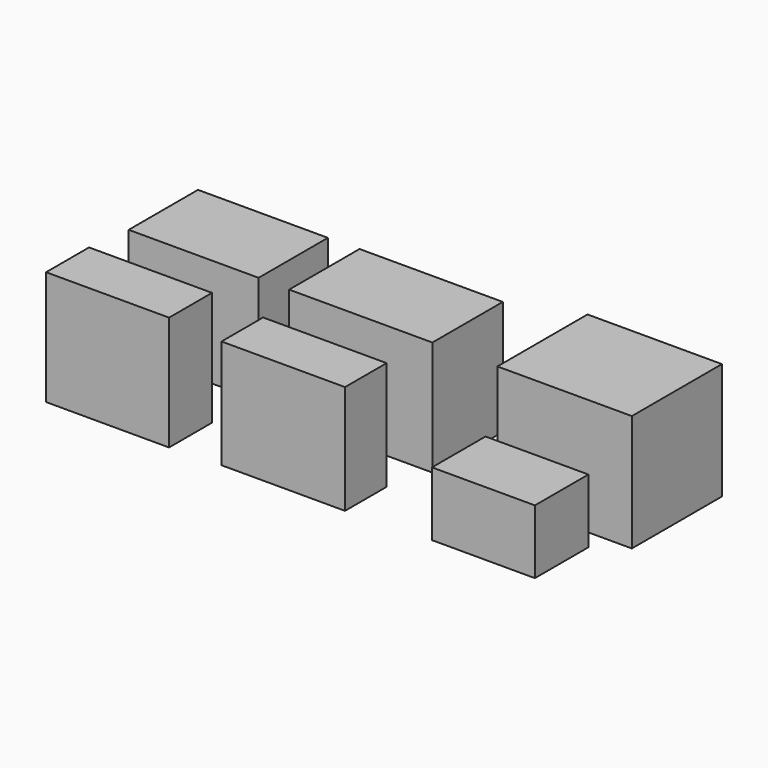
from build123d import *

# Parameters (mm, degrees)
F0_W      = 197.104
F0_H      = 165.1
F1_DEPTH  = 170.942
F2_W      = 210.058
F2_H      = 129.032
F3_DEPTH  = 167.894
F4_W      = 181.102
F4_H      = 76.2
F5_DEPTH  = 159.766
F6_W      = 150.876
F6_H      = 98.044
F7_DEPTH  = 93.98
F8_W      = 190.5
F8_H      = 127
F9_DEPTH  = 158.75
F10_W     = 180.34
F10_H     = 78.74
F11_DEPTH = 167.64


with BuildPart() as f1:
    # F0 (on Top) → F1 (new body)
    with BuildSketch(Plane.XY):
        Rectangle(F0_W, F0_H)
    extrude(amount=F1_DEPTH)


with BuildPart() as f3:
    # F2 (on Top) → F3 (new body)
    with BuildSketch(Plane.XY):
        with Locations((-302.406549, -13.718079)):
            Rectangle(F2_W, F2_H)
    extrude(amount=F3_DEPTH)


with BuildPart() as f5:
    # F4 (on Top) → F5 (new body)
    with BuildSketch(Plane.XY):
        with Locations((-306.777716, -176.749136)):
            Rectangle(F4_W, F4_H)
    extrude(amount=F5_DEPTH)


with BuildPart() as f7:
    # F6 (on Top) → F7 (new body)
    with BuildSketch(Plane.XY):
        with Locations((-17.598253, -160.335455)):
            Rectangle(F6_W, F6_H)
    extrude(amount=F7_DEPTH)


with BuildPart() as f9:
    # F8 (on Top) → F9 (new body)
    with BuildSketch(Plane.XY):
        with Locations((-559.25452, 0)):
            Rectangle(F8_W, F8_H)
    extrude(amount=F9_DEPTH)


with BuildPart() as f11:
    # F10 (on Top) → F11 (new body)
    with BuildSketch(Plane.XY):
        with Locations((-561.871514, -178.636187)):
            Rectangle(F10_W, F10_H)
    extrude(amount=F11_DEPTH)


solid = Compound([f1.part, f3.part, f5.part, f7.part, f9.part, f11.part])
